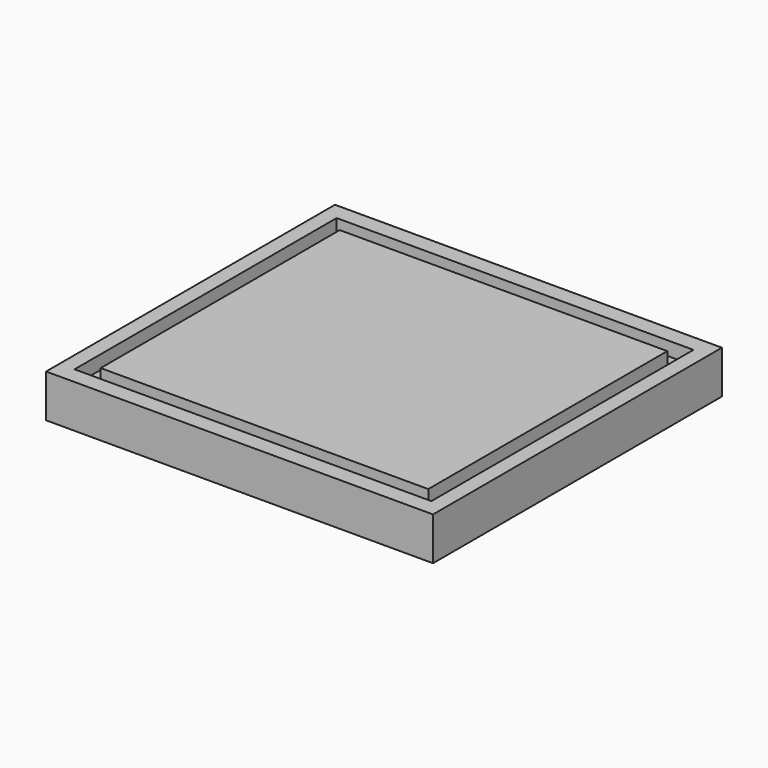
from build123d import *

# Parameters (mm, degrees)
F0_W     = 90
F0_H     = 84
F1_DEPTH = 10
F2_W     = 83
F2_H     = 76.2
F2_W_2   = 76.2
F2_H_2   = 69.5
F3_DEPTH = 3.2
F4_W     = 83
F4_H     = 76.2
F4_W_2   = 76.2
F4_H_2   = 69.5
F5_DEPTH = 3.2


with BuildPart() as f1:
    # F0 (on Top) → F1 (new body)
    with BuildSketch(Plane.XY):
        Rectangle(F0_W, F0_H)
    extrude(amount=F1_DEPTH)

    # F2 (on face) → F3 (cut)
    with BuildSketch(Plane.XY.offset(10)):
        Rectangle(F2_W, F2_H)
        Rectangle(F2_W_2, F2_H_2, mode=Mode.SUBTRACT)
    extrude(amount=-F3_DEPTH, mode=Mode.SUBTRACT)

    # F4 (on face) → F5 (cut)
    with BuildSketch(Plane(origin=(0, 0, 0), x_dir=(1, 0, 0), z_dir=(0, 0, -1))):
        Rectangle(F4_W, F4_H)
        Rectangle(F4_W_2, F4_H_2, mode=Mode.SUBTRACT)
    extrude(amount=-F5_DEPTH, mode=Mode.SUBTRACT)


solid = f1.part
